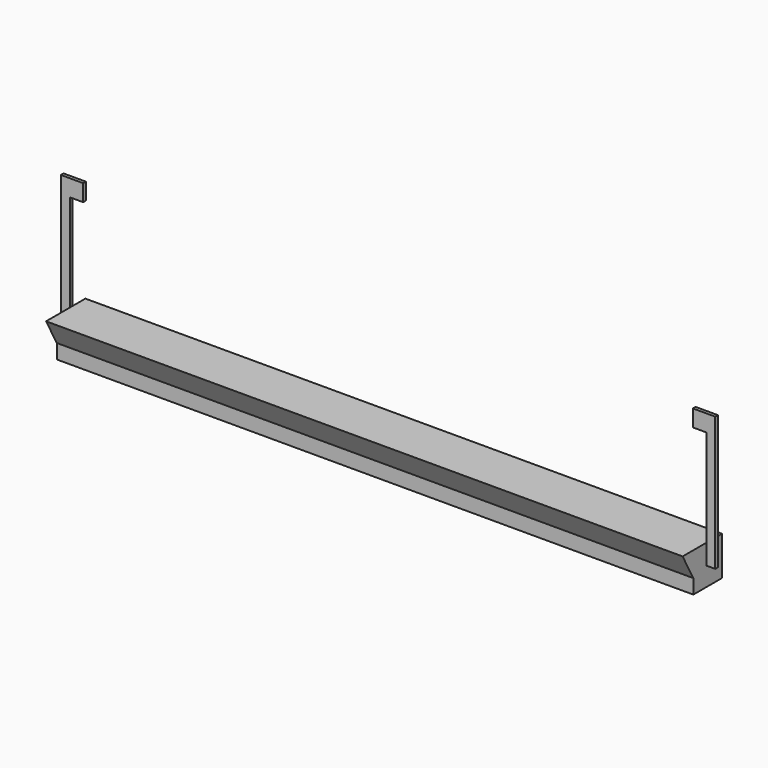
from build123d import *

# Parameters (mm, degrees)
F0_W      = 570
F0_H      = 32
F1_DEPTH  = 13
F3_DEPTH  = 570
F4_W      = 3
F4_H      = 18
F5_DEPTH  = 8
F6_W      = 8
F6_H      = 3
F7_DEPTH  = 102
F8_W      = 3
F8_H      = 15
F9_DEPTH  = 12
F10_W     = 3
F10_H     = 102
F10_H_2   = 18
F11_DEPTH = 8
F12_W     = 3
F12_H     = 15
F13_DEPTH = 12


with BuildPart() as f1:
    # F0 (on Top) → F1 (new body)
    with BuildSketch(Plane.XY):
        Rectangle(F0_W, F0_H)
    extrude(amount=F1_DEPTH)

    # F2 (on face) → F3 (join)
    with BuildSketch(Plane(origin=(-285, 0, 0), x_dir=(0, -1, 0), z_dir=(-1, 0, 0))):
        Polygon((-16, 13), (16, 13), (28, 35), (-16, 35), align=None)
    extrude(amount=-F3_DEPTH)

    # F4 (on face) → F5 (join)
    with BuildSketch(Plane(origin=(-285, 0, 0), x_dir=(0, -1, 0), z_dir=(-1, 0, 0))):
        with Locations((0, 26)):
            Rectangle(F4_W, F4_H)
    extrude(amount=F5_DEPTH)

    # F6 (on face) → F7 (join)
    with BuildSketch(Plane.XY.offset(35)):
        with Locations((-289, 0)):
            Rectangle(F6_W, F6_H)
    extrude(amount=F7_DEPTH)

    # F8 (on face) → F9 (join)
    with BuildSketch(Plane.YZ.offset(-285)):
        with Locations((0, 129.5)):
            Rectangle(F8_W, F8_H)
    extrude(amount=F9_DEPTH)

    # F10 (on face) → F11 (join)
    with BuildSketch(Plane.YZ.offset(285)):
        with Locations((0, 86)):
            Rectangle(F10_W, F10_H)
        with Locations((0, 26)):
            Rectangle(F10_W, F10_H_2)
    extrude(amount=F11_DEPTH)

    # F12 (on face) → F13 (join)
    with BuildSketch(Plane(origin=(285, 0, 0), x_dir=(0, -1, 0), z_dir=(-1, 0, 0))):
        with Locations((0, 129.5)):
            Rectangle(F12_W, F12_H)
    extrude(amount=F13_DEPTH)


solid = f1.part
